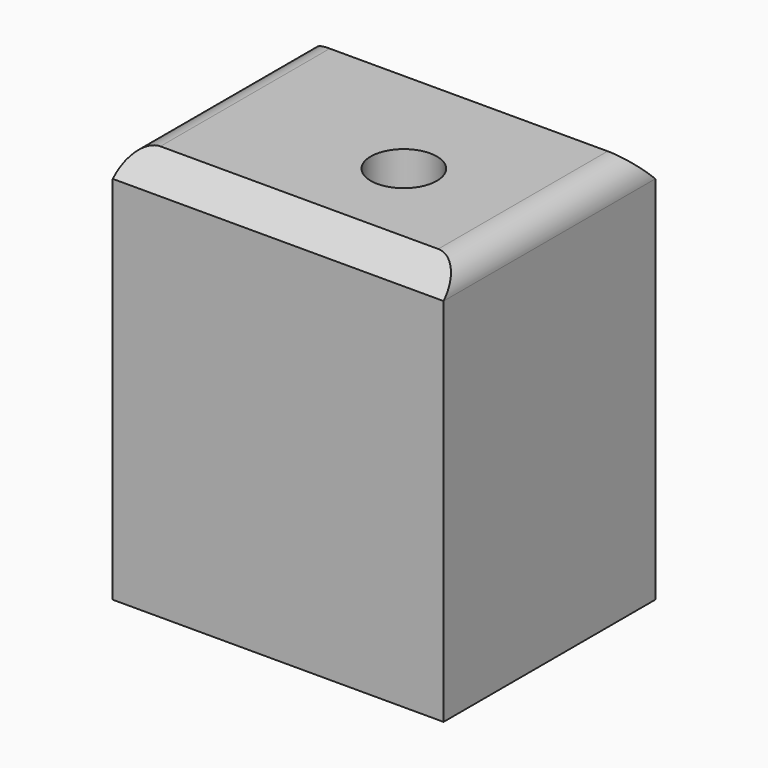
from build123d import *

# Parameters (mm, degrees)
F0_W     = 63.5
F0_H     = 50.8
F1_DEPTH = 76.2
F2_R     = 6.35
F3_DEPTH = 76.201
F4_SIZE  = 5.08
F5_R     = 5.08


with BuildPart() as f1:
    # F0 (on Top) → F1 (new body)
    with BuildSketch(Plane.XY):
        with Locations((6.35, -6.35)):
            Rectangle(F0_W, F0_H)
    extrude(amount=F1_DEPTH)

    # F2 (on face) → F3 (cut, through all)
    with BuildSketch(Plane.XY.offset(76.2)):
        with Locations((12.7, -9.525)):
            Circle(F2_R)
    extrude(amount=-F3_DEPTH, mode=Mode.SUBTRACT)

    # F4
    f4_edges = [f1.edges().sort_by_distance(p)[0] for p in [
        (6.35, 19.05, 76.2),
        (6.35, -31.75, 76.2),
    ]]
    chamfer(f4_edges, length=F4_SIZE)

    # F5
    f5_edges = [f1.edges().sort_by_distance(p)[0] for p in [
        (-25.4, -6.35, 76.2),
        (38.1, -6.35, 76.2),
    ]]
    fillet(f5_edges, radius=F5_R)


solid = f1.part
